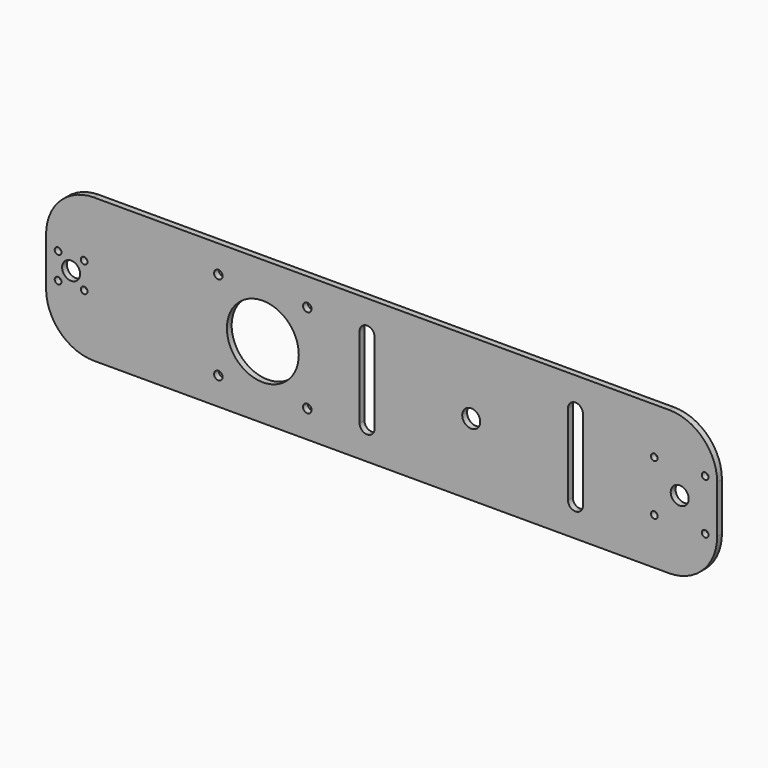
from build123d import *

# Parameters (mm, degrees)
F0_R     = 2.25
F0_R_2   = 1.778
F0_R_3   = 4.7625
F0_R_4   = 19.05
F1_DEPTH = 3.175


with BuildPart() as f1:
    # F0 (on Front) → F1 (new body)
    with BuildSketch(Plane.XZ):
        with BuildLine():
            ThreePointArc((177.8, 12.7), (170.360512, 30.660512), (152.4, 38.1))
            Line((152.4, 38.1), (-152.4, 38.1))
            ThreePointArc((-152.4, 38.1), (-170.360512, 30.660512), (-177.8, 12.7))
            Line((-177.8, 12.7), (-177.8, -12.7))
            ThreePointArc((-177.8, -12.7), (-170.360512, -30.660512), (-152.4, -38.1))
            Line((-152.4, -38.1), (152.4, -38.1))
            ThreePointArc((152.4, -38.1), (170.360512, -30.660512), (177.8, -12.7))
            Line((177.8, -12.7), (177.8, 12.7))
        make_face()
        with Locations((-86.5112, -23.57)):
            Circle(F0_R, mode=Mode.SUBTRACT)
        with Locations((-39.3712, -23.57)):
            Circle(F0_R, mode=Mode.SUBTRACT)
        with Locations((-171.45, -6.9088)):
            Circle(F0_R_2, mode=Mode.SUBTRACT)
        with Locations((-157.6324, -6.9088)):
            Circle(F0_R_2, mode=Mode.SUBTRACT)
        with Locations((144.5006, -13.4747)):
            Circle(F0_R_2, mode=Mode.SUBTRACT)
        with Locations((171.45, -13.4747)):
            Circle(F0_R_2, mode=Mode.SUBTRACT)
        with Locations((-164.5412, 0)):
            Circle(F0_R_3, mode=Mode.SUBTRACT)
        with Locations((-171.45, 6.9088)):
            Circle(F0_R_2, mode=Mode.SUBTRACT)
        with Locations((-157.6324, 6.9088)):
            Circle(F0_R_2, mode=Mode.SUBTRACT)
        with Locations((-62.9412, 0)):
            Circle(F0_R_4, mode=Mode.SUBTRACT)
        with BuildLine():
            Line((-3.72745, 21.43125), (-3.72745, -21.43125))
            ThreePointArc((-3.72745, -21.43125), (-4.88987, -24.23758), (-7.6962, -25.4))
            ThreePointArc((-7.6962, -25.4), (-10.50253, -24.23758), (-11.66495, -21.43125))
            Line((-11.66495, -21.43125), (-11.66495, 21.43125))
            ThreePointArc((-11.66495, 21.43125), (-10.50253, 24.23758), (-7.6962, 25.4))
            ThreePointArc((-7.6962, 25.4), (-4.88987, 24.23758), (-3.72745, 21.43125))
        make_face(mode=Mode.SUBTRACT)
        with Locations((-86.5112, 23.57)):
            Circle(F0_R, mode=Mode.SUBTRACT)
        with Locations((-39.3712, 23.57)):
            Circle(F0_R, mode=Mode.SUBTRACT)
        with Locations((47.4853, 0)):
            Circle(F0_R_3, mode=Mode.SUBTRACT)
        with BuildLine():
            Line((106.69905, 21.43125), (106.69905, -21.43125))
            ThreePointArc((106.69905, -21.43125), (105.53663, -24.23758), (102.7303, -25.4))
            ThreePointArc((102.7303, -25.4), (99.92397, -24.23758), (98.76155, -21.43125))
            Line((98.76155, -21.43125), (98.76155, 21.43125))
            ThreePointArc((98.76155, 21.43125), (99.92397, 24.23758), (102.7303, 25.4))
            ThreePointArc((102.7303, 25.4), (105.53663, 24.23758), (106.69905, 21.43125))
        make_face(mode=Mode.SUBTRACT)
        with Locations((157.9753, 0)):
            Circle(F0_R_3, mode=Mode.SUBTRACT)
        with Locations((144.5006, 13.4747)):
            Circle(F0_R_2, mode=Mode.SUBTRACT)
        with Locations((171.45, 13.4747)):
            Circle(F0_R_2, mode=Mode.SUBTRACT)
    extrude(amount=F1_DEPTH)


solid = f1.part
